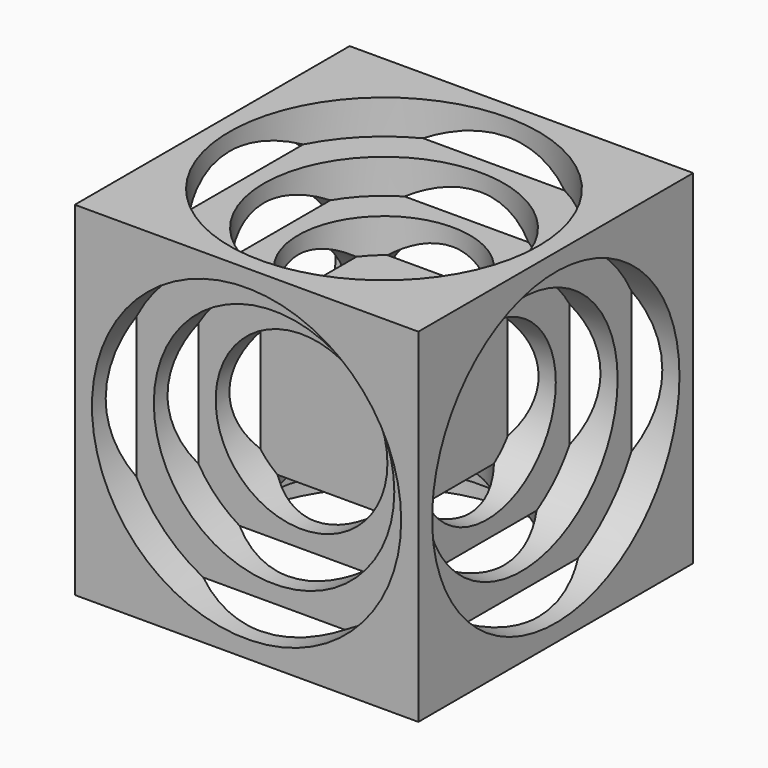
from build123d import *

# Parameters (mm, degrees)
F0_W      = 50
F0_H      = 50
F1_DEPTH  = 50
F2_R      = 22.5
F3_DEPTH  = 5
F4_R      = 17.5
F5_DEPTH  = 5
F6_R      = 12.5
F7_DEPTH  = 5
F8_R      = 22.5
F9_DEPTH  = 5
F10_R     = 17.5
F11_DEPTH = 5
F12_R     = 12.5
F13_DEPTH = 5
F14_R     = 22.5
F15_DEPTH = 5
F16_R     = 17.5
F17_DEPTH = 5
F18_R     = 12.5
F19_DEPTH = 5
F20_R     = 22.5
F21_DEPTH = 5
F22_R     = 17.5
F23_DEPTH = 5
F24_R     = 12.5
F25_DEPTH = 5
F26_R     = 22.5
F27_DEPTH = 5
F28_R     = 17.5
F29_DEPTH = 5
F30_R     = 12.5
F31_DEPTH = 5
F32_R     = 22.5
F33_DEPTH = 5
F34_R     = 17.5
F35_DEPTH = 5
F36_R     = 12.5
F37_DEPTH = 5


with BuildPart() as f1:
    # F0 (on Top) → F1 (new body)
    with BuildSketch(Plane.XY):
        with Locations((25, 25)):
            Rectangle(F0_W, F0_H)
    extrude(amount=F1_DEPTH)

    # F2 (on face) → F3 (cut)
    with BuildSketch(Plane.XY.offset(50)):
        with Locations((25, 25)):
            Circle(F2_R)
    extrude(amount=-F3_DEPTH, mode=Mode.SUBTRACT)

    # F4 (on face) → F5 (cut)
    with BuildSketch(Plane.XY.offset(45)):
        with Locations((25, 25)):
            Circle(F4_R)
    extrude(amount=-F5_DEPTH, mode=Mode.SUBTRACT)

    # F6 (on face) → F7 (cut)
    with BuildSketch(Plane.XY.offset(40)):
        with Locations((25, 25)):
            Circle(F6_R)
    extrude(amount=-F7_DEPTH, mode=Mode.SUBTRACT)

    # F8 (on face) → F9 (cut)
    with BuildSketch(Plane(origin=(0, 0, 0), x_dir=(0, -1, 0), z_dir=(-1, 0, 0))):
        with Locations((-25, 25)):
            Circle(F8_R)
    extrude(amount=-F9_DEPTH, mode=Mode.SUBTRACT)

    # F10 (on face) → F11 (cut)
    with BuildSketch(Plane(origin=(5, 0, 0), x_dir=(0, -1, 0), z_dir=(-1, 0, 0))):
        with Locations((-25, 25)):
            Circle(F10_R)
        with Locations((-25, 25)):
            Circle(F10_R)
    extrude(amount=-F11_DEPTH, mode=Mode.SUBTRACT)

    # F12 (on face) → F13 (cut)
    with BuildSketch(Plane(origin=(10, 0, 0), x_dir=(0, -1, 0), z_dir=(-1, 0, 0))):
        with Locations((-25, 25)):
            Circle(F12_R)
    extrude(amount=-F13_DEPTH, mode=Mode.SUBTRACT)

    # F14 (on face) → F15 (cut)
    with BuildSketch(Plane.XZ):
        with Locations((25, 25)):
            Circle(F14_R)
    extrude(amount=-F15_DEPTH, mode=Mode.SUBTRACT)

    # F16 (on face) → F17 (cut)
    with BuildSketch(Plane.XZ.offset(-5)):
        with Locations((25, 25)):
            Circle(F16_R)
    extrude(amount=-F17_DEPTH, mode=Mode.SUBTRACT)

    # F18 (on face) → F19 (cut)
    with BuildSketch(Plane.XZ.offset(-10)):
        with Locations((25, 25)):
            Circle(F18_R)
    extrude(amount=-F19_DEPTH, mode=Mode.SUBTRACT)

    # F20 (on face) → F21 (cut)
    with BuildSketch(Plane.YZ.offset(50)):
        with Locations((25, 25)):
            Circle(F20_R)
    extrude(amount=-F21_DEPTH, mode=Mode.SUBTRACT)

    # F22 (on face) → F23 (cut)
    with BuildSketch(Plane.YZ.offset(45)):
        with Locations((25, 25)):
            Circle(F22_R)
    extrude(amount=-F23_DEPTH, mode=Mode.SUBTRACT)

    # F24 (on face) → F25 (cut)
    with BuildSketch(Plane.YZ.offset(40)):
        with Locations((25, 25)):
            Circle(F24_R)
    extrude(amount=-F25_DEPTH, mode=Mode.SUBTRACT)

    # F26 (on face) → F27 (cut)
    with BuildSketch(Plane(origin=(0, 50, 0), x_dir=(-1, 0, 0), z_dir=(0, 1, 0))):
        with Locations((-25, 25)):
            Circle(F26_R)
    extrude(amount=-F27_DEPTH, mode=Mode.SUBTRACT)

    # F28 (on face) → F29 (cut)
    with BuildSketch(Plane(origin=(0, 45, 0), x_dir=(-1, 0, 0), z_dir=(0, 1, 0))):
        with Locations((-25, 25)):
            Circle(F28_R)
    extrude(amount=-F29_DEPTH, mode=Mode.SUBTRACT)

    # F30 (on face) → F31 (cut)
    with BuildSketch(Plane(origin=(0, 40, 0), x_dir=(-1, 0, 0), z_dir=(0, 1, 0))):
        with Locations((-25, 25)):
            Circle(F30_R)
    extrude(amount=-F31_DEPTH, mode=Mode.SUBTRACT)

    # F32 (on face) → F33 (cut)
    with BuildSketch(Plane(origin=(0, 0, 0), x_dir=(1, 0, 0), z_dir=(0, 0, -1))):
        with Locations((25, -25)):
            Circle(F32_R)
        with Locations((25, -25)):
            Circle(F32_R)
    extrude(amount=-F33_DEPTH, mode=Mode.SUBTRACT)

    # F34 (on face) → F35 (cut)
    with BuildSketch(Plane(origin=(0, 0, 5), x_dir=(1, 0, 0), z_dir=(0, 0, -1))):
        with Locations((25, -25)):
            Circle(F34_R)
    extrude(amount=-F35_DEPTH, mode=Mode.SUBTRACT)

    # F36 (on face) → F37 (cut)
    with BuildSketch(Plane(origin=(0, 0, 10), x_dir=(1, 0, 0), z_dir=(0, 0, -1))):
        with Locations((25, -25)):
            Circle(F36_R)
    extrude(amount=-F37_DEPTH, mode=Mode.SUBTRACT)


solid = f1.part
